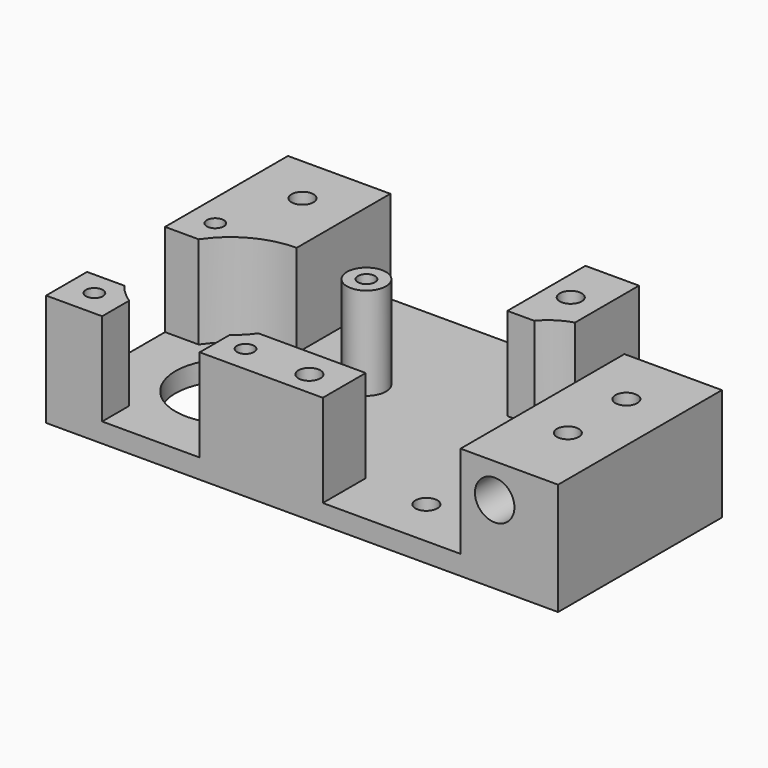
from build123d import *

# Parameters (mm, degrees)
SKETCH_R        = 2.25
SKETCH_R_2      = 11.25
SKETCH_R_3      = 1.75
PAD_DEPTH       = 23
SKETCH001_R     = 4
POCKET_DEPTH    = 19
SKETCH002_R     = 2.25
POCKET001_DEPTH = 10
SKETCH003_R     = 4.05
POCKET002_DEPTH = 12
SKETCH004_R     = 3.75
POCKET003_DEPTH = 10


with BuildPart() as pocket002:
    # Sketch → Pad (new body)
    with BuildSketch(Plane.XY):
        Polygon((0, 0), (105, 0), (105, 62), (20, 62), (20, 42), (0, 42), align=None)
        with Locations((35, 10)):
            Circle(SKETCH_R, mode=Mode.SUBTRACT)
        with Locations((30, 35)):
            Circle(SKETCH_R, mode=Mode.SUBTRACT)
        with Locations((84, 21)):
            Circle(SKETCH_R_2, mode=Mode.SUBTRACT)
        with Locations((68.5, 36.5)):
            Circle(SKETCH_R_3, mode=Mode.SUBTRACT)
        with Locations((99.5, 36.5)):
            Circle(SKETCH_R_3, mode=Mode.SUBTRACT)
        with Locations((68.5, 5.5)):
            Circle(SKETCH_R_3, mode=Mode.SUBTRACT)
        with Locations((99.5, 5.5)):
            Circle(SKETCH_R_3, mode=Mode.SUBTRACT)
        with Locations((10, 30)):
            Circle(SKETCH_R, mode=Mode.SUBTRACT)
        with Locations((10, 15)):
            Circle(SKETCH_R, mode=Mode.SUBTRACT)
        with Locations((39, 52)):
            Circle(SKETCH_R, mode=Mode.SUBTRACT)
        with Locations((94, 52)):
            Circle(SKETCH_R, mode=Mode.SUBTRACT)
    extrude(amount=PAD_DEPTH)

    # Sketch001 → Pocket (cut)
    with BuildSketch(Plane.XY.offset(23)):
        with BuildLine():
            ThreePointArc((38.485281, 42), (36.015595, 44.209377), (32.999996, 45.583006))
            Line((32.999996, 67), (32.999996, 45.583006))
            Line((20, 67), (32.999996, 67))
            Line((20, -1), (20, 67))
            Line((20, -1), (48.252269, -1))
            Line((48.252269, 11), (48.252269, -1))
            Line((48.252269, 11), (70.252269, 11))
            ThreePointArc((70.252269, 11), (71.759618, 9.202833), (73.499996, 7.630258))
            Line((73.499996, 7.630258), (73.499996, -1))
            Line((73.499996, -1), (93.499996, -1))
            Line((93.499996, -1), (93.499996, 6.902128))
            ThreePointArc((93.499996, 6.902128), (95.574295, 8.548671), (97.367695, 10.497399))
            Line((105.499996, 10.497399), (97.367695, 10.497399))
            Line((105.499996, 30.497399), (105.499996, 10.497399))
            Line((98.099621, 30.497399), (105.499996, 30.497399))
            ThreePointArc((98.099621, 30.497399), (91.98574, 36.007594), (83.999996, 38))
            Line((83.999996, 38), (83.999996, 67))
            Line((83.999996, 67), (43.999996, 67))
            Line((43.999996, 67), (43.999996, 42))
            Line((38.485281, 42), (43.999996, 42))
        make_face()
        with Locations((68.5, 36.5)):
            Circle(SKETCH001_R, mode=Mode.SUBTRACT)
    extrude(amount=-POCKET_DEPTH, mode=Mode.SUBTRACT)

    # Sketch002 → Pocket001 (cut)
    with BuildSketch(Plane.XY.offset(23)):
        with Locations((55, 5)):
            Circle(SKETCH002_R)
    extrude(amount=-POCKET001_DEPTH, mode=Mode.SUBTRACT)

    # Sketch003 → Pocket002 (cut)
    with BuildSketch(Plane.XZ):
        with Locations((13, 16)):
            Circle(SKETCH003_R)
    extrude(amount=-POCKET002_DEPTH, mode=Mode.SUBTRACT)


with BuildPart() as pocket003:
    # Part__Mirroring: instance of Pocket002
    add(pocket002.part.mirror(Plane(origin=(0, 0, 0), x_dir=(0, -1, 0), z_dir=(1, 0, 0))))

    # Sketch004 → Pocket003 (cut)
    with BuildSketch(Plane(origin=(0, 0, 0), x_dir=(1, 0, 0), z_dir=(0, 0, -1))):
        with Locations((-10, -15)):
            Circle(SKETCH004_R)
        with Locations((-10, -30)):
            Circle(SKETCH004_R)
        with Locations((-94, -52)):
            Circle(SKETCH004_R)
        with Locations((-39, -52)):
            Circle(SKETCH004_R)
    extrude(amount=-POCKET003_DEPTH, mode=Mode.SUBTRACT)


solid = pocket003.part
